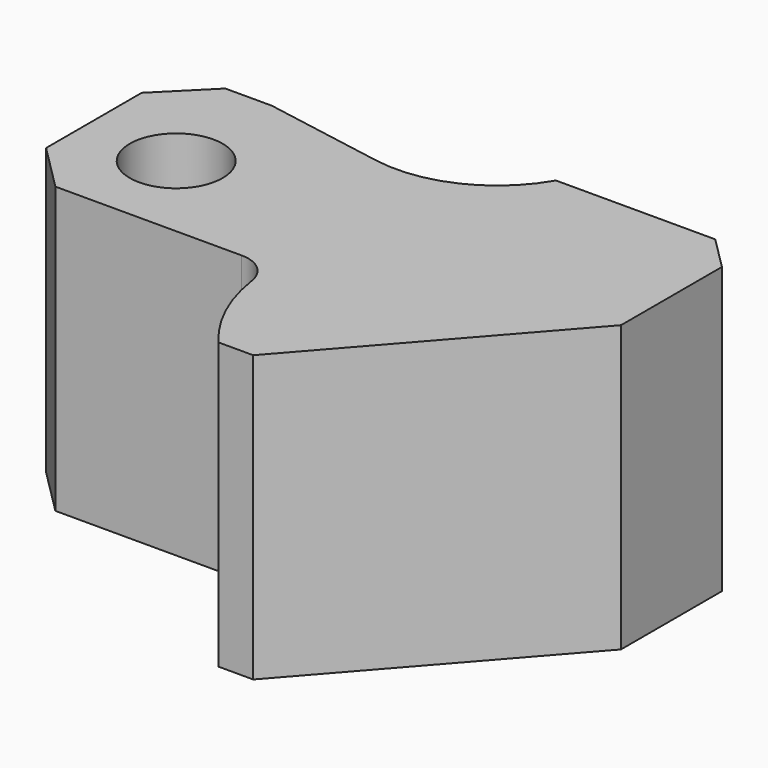
from build123d import *

# Parameters (mm, degrees)
F1_DEPTH = 43


with BuildPart() as f1:
    # F0 (on Top) → F1 (new body)
    with BuildSketch(Plane.XY):
        with BuildLine():
            Line((-14, 11), (-14, -7))
            Line((-14, -7), (-7, -14))
            Line((-7, -14), (0, -14))
            Line((0, -14), (21.066626, -14))
            ThreePointArc((21.066626, -14), (24.331862, -15.213414), (26.012265, -18.264706))
            ThreePointArc((26.012265, -18.264706), (28.349095, -26.115672), (32.788067, -33))
            Line((32.788067, -33), (38, -33))
            Line((38, -33), (67, 0))
            Line((67, 0), (67, 19))
            Line((67, 19), (62, 24))
            Line((62, 24), (38, 24))
            ThreePointArc((38, 24), (29.574973, 16.276069), (18.243085, 14.783252))
            Line((18.243085, 14.783252), (0, 18))
            Line((0, 18), (-7, 18))
            Line((-7, 18), (-14, 11))
        make_face()
        with BuildLine():
            ThreePointArc((7, 0), (4.949747, -4.949747), (0, -7))
            ThreePointArc((0, -7), (-4.949747, 4.949747), (7, 0))
        make_face(mode=Mode.SUBTRACT)
    extrude(amount=F1_DEPTH)


solid = f1.part
